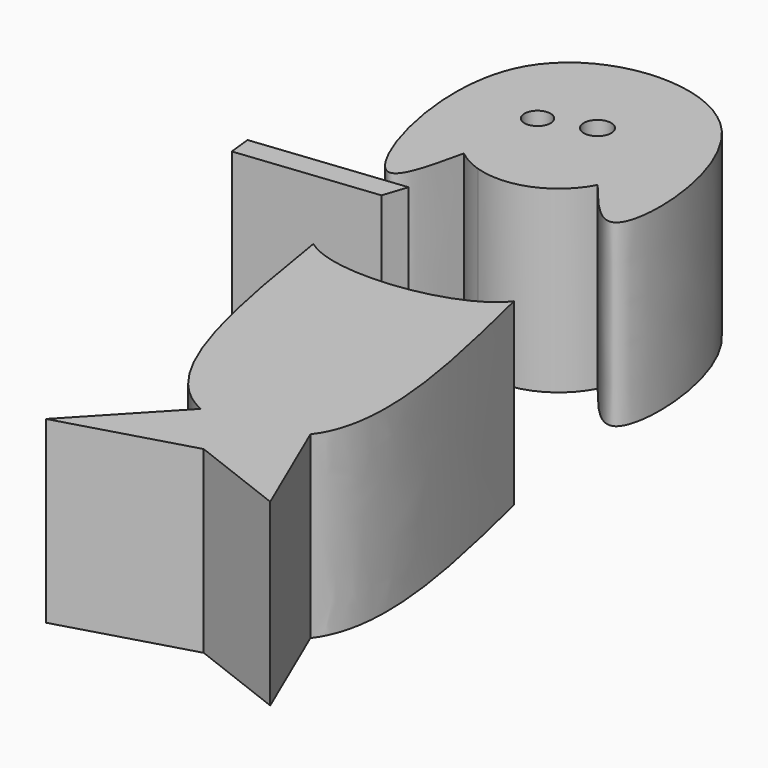
from build123d import *

# Parameters (mm, degrees)
F0_R     = 1.846820146
F0_R_2   = 1.9467160106
F1_DEPTH = 25.4
F2_DEPTH = 25.4


with BuildPart() as f1:
    # F0 (on Top) → F1 (new body)
    with BuildSketch(Plane.XY):
        with BuildLine():
            ThreePointArc((36.9435020758, 36.0929218966), (37.8600038878, 38.5097595853), (38.1715385749, 41.0756953061))
            ThreePointArc((38.1715385749, 41.0756953061), (22.845534622, 50.7602455049), (20.6779608561, 32.7608418012))
            ThreePointArc((20.6779608561, 32.7608418012), (22.3670908904, 31.6334019049), (24.2384962653, 30.8446542167))
            ThreePointArc((24.2384962653, 30.8446542167), (31.5426099993, 31.1651286693), (36.9435020758, 36.0929218966))
        make_face()
        with Locations((21.8032132834, 44.3851128221)):
            Circle(F0_R, mode=Mode.SUBTRACT)
        with Locations((28.4220445901, 46.7211678624)):
            Circle(F0_R_2, mode=Mode.SUBTRACT)
        with BuildLine():
            ThreePointArc((20.6779608561, 32.7608418012), (22.845534622, 50.7602455049), (38.1715385749, 41.0756953061))
            ThreePointArc((38.1715385749, 41.0756953061), (37.8600038878, 38.5097595853), (36.9435020758, 36.0929218966))
            add(Edge.make_bspline(
                [(36.9435020758, 36.0929218966), (39.7619230971, 32.5731202027), (47.327591355, 23.1433714802), (45.3254807892, 64.2964760594), (2.4433310892, 60.3817058524), (16.764176742, 15.2065417029), (19.6323979114, 28.0748703107), (20.6779608561, 32.7608418012)],
                knots=[0, 0, 0, 0, 0.1400069429, 0.3744184043, 0.6104598031, 0.858165432, 1, 1, 1, 1], degree=3))
        make_face()
    extrude(amount=F1_DEPTH)


with BuildPart() as f1b:
    # F0 (on Top) → F1, piece 2 (new body)
    with BuildSketch(Plane.XY):
        with BuildLine():
            add(Edge.make_bspline(
                [(21.219195798, 5.4508033209), (26.9567443659, 1.0706934922), (42.9232525251, 3.0011097838), (47.1105128527, 8.5655478761)],
                knots=[0.3278309737, 0.3278309737, 0.3278309737, 0.3278309737, 0.6588848416, 0.6588848416, 0.6588848416, 0.6588848416], degree=3))
            add(Edge.make_bspline(
                [(21.219195798, 5.4508033209), (23.7916090126, -10.6380070469), (26.5623994556, -27.9675409471), (35.5120330181, -32.8891363386), (36.173596138, -33.1789525885)],
                knots=[0, 0, 0, 0, 0.3831045517, 0.4126484908, 0.4126484908, 0.4126484908, 0.4126484908], degree=3))
            add(Edge.make_bspline(
                [(36.173596138, -33.1789525885), (40.8303052611, -35.2189544183), (46.5178888087, -34.1598140853), (49.4465716183, -30.3687602282)],
                knots=[0.4126484908, 0.4126484908, 0.4126484908, 0.4126484908, 0.6206067737, 0.6206067737, 0.6206067737, 0.6206067737], degree=3))
            add(Edge.make_bspline(
                [(49.4465716183, -30.3687602282), (54.789577939, -23.4524684897), (50.9500453958, -7.4434603068), (47.1105128527, 8.5655478761)],
                knots=[0.6206067737, 0.6206067737, 0.6206067737, 0.6206067737, 1, 1, 1, 1], degree=3))
        make_face()
        with BuildLine():
            add(Edge.make_bspline(
                [(36.173596138, -33.1789525885), (40.8303052611, -35.2189544183), (46.5178888087, -34.1598140853), (49.4465716183, -30.3687602282)],
                knots=[0.4126484908, 0.4126484908, 0.4126484908, 0.4126484908, 0.6206067737, 0.6206067737, 0.6206067737, 0.6206067737], degree=3))
            Line((36.173596138, -33.1789525885), (24.331788693, -45.7527260185))
            Line((24.331788693, -45.7527260185), (42.4383915961, -40.4916778207))
            Line((42.4383915961, -40.4916778207), (56.0653991997, -45.7527260185))
            Line((56.0653991997, -45.7527260185), (49.4465716183, -30.3687602282))
        make_face()
    extrude(amount=F1_DEPTH)


with BuildPart() as f1c:
    # F0 (on Top) → F1, piece 3 (new body)
    with BuildSketch(Plane.XY):
        with BuildLine():
            add(Edge.make_bspline(
                [(20.9707160152, 22.6021182317), (20.5532650929, 21.4470552384), (20.1705823964, 20.3134723426), (19.83768814, 19.2106311627)],
                knots=[0.0867319997, 0.0867319997, 0.0867319997, 0.0867319997, 0.1242412505, 0.1242412505, 0.1242412505, 0.1242412505], degree=3))
            Line((20.9707160152, 22.6021182317), (0, 20.3139950234))
            Line((0, 20.3139950234), (0.352362816, 17.0845795265))
            Line((0.352362816, 17.0845795265), (19.83768814, 19.2106311627))
        make_face()
    extrude(amount=F1_DEPTH)


with BuildPart() as f2:
    # F0 (on Top) → F2 (new body)
    with BuildSketch(Plane.XY):
        with BuildLine():
            ThreePointArc((36.9435020758, 36.0929218966), (37.8600038878, 38.5097595853), (38.1715385749, 41.0756953061))
            ThreePointArc((38.1715385749, 41.0756953061), (22.845534622, 50.7602455049), (20.6779608561, 32.7608418012))
            ThreePointArc((20.6779608561, 32.7608418012), (22.3670908904, 31.6334019049), (24.2384962653, 30.8446542167))
            ThreePointArc((24.2384962653, 30.8446542167), (31.5426099993, 31.1651286693), (36.9435020758, 36.0929218966))
        make_face()
        with Locations((21.8032132834, 44.3851128221)):
            Circle(F0_R, mode=Mode.SUBTRACT)
        with Locations((28.4220445901, 46.7211678624)):
            Circle(F0_R_2, mode=Mode.SUBTRACT)
        with BuildLine():
            ThreePointArc((20.6779608561, 32.7608418012), (22.845534622, 50.7602455049), (38.1715385749, 41.0756953061))
            ThreePointArc((38.1715385749, 41.0756953061), (37.8600038878, 38.5097595853), (36.9435020758, 36.0929218966))
            add(Edge.make_bspline(
                [(36.9435020758, 36.0929218966), (39.7619230971, 32.5731202027), (47.327591355, 23.1433714802), (45.3254807892, 64.2964760594), (2.4433310892, 60.3817058524), (16.764176742, 15.2065417029), (19.6323979114, 28.0748703107), (20.6779608561, 32.7608418012)],
                knots=[0, 0, 0, 0, 0.1400069429, 0.3744184043, 0.6104598031, 0.858165432, 1, 1, 1, 1], degree=3))
        make_face()
    extrude(amount=F2_DEPTH)


with BuildPart() as f2b:
    # F0 (on Top) → F2, piece 2 (new body)
    with BuildSketch(Plane.XY):
        with BuildLine():
            add(Edge.make_bspline(
                [(21.219195798, 5.4508033209), (26.9567443659, 1.0706934922), (42.9232525251, 3.0011097838), (47.1105128527, 8.5655478761)],
                knots=[0.3278309737, 0.3278309737, 0.3278309737, 0.3278309737, 0.6588848416, 0.6588848416, 0.6588848416, 0.6588848416], degree=3))
            add(Edge.make_bspline(
                [(21.219195798, 5.4508033209), (23.7916090126, -10.6380070469), (26.5623994556, -27.9675409471), (35.5120330181, -32.8891363386), (36.173596138, -33.1789525885)],
                knots=[0, 0, 0, 0, 0.3831045517, 0.4126484908, 0.4126484908, 0.4126484908, 0.4126484908], degree=3))
            add(Edge.make_bspline(
                [(36.173596138, -33.1789525885), (40.8303052611, -35.2189544183), (46.5178888087, -34.1598140853), (49.4465716183, -30.3687602282)],
                knots=[0.4126484908, 0.4126484908, 0.4126484908, 0.4126484908, 0.6206067737, 0.6206067737, 0.6206067737, 0.6206067737], degree=3))
            add(Edge.make_bspline(
                [(49.4465716183, -30.3687602282), (54.789577939, -23.4524684897), (50.9500453958, -7.4434603068), (47.1105128527, 8.5655478761)],
                knots=[0.6206067737, 0.6206067737, 0.6206067737, 0.6206067737, 1, 1, 1, 1], degree=3))
        make_face()
        with BuildLine():
            add(Edge.make_bspline(
                [(36.173596138, -33.1789525885), (40.8303052611, -35.2189544183), (46.5178888087, -34.1598140853), (49.4465716183, -30.3687602282)],
                knots=[0.4126484908, 0.4126484908, 0.4126484908, 0.4126484908, 0.6206067737, 0.6206067737, 0.6206067737, 0.6206067737], degree=3))
            Line((36.173596138, -33.1789525885), (24.331788693, -45.7527260185))
            Line((24.331788693, -45.7527260185), (42.4383915961, -40.4916778207))
            Line((42.4383915961, -40.4916778207), (56.0653991997, -45.7527260185))
            Line((56.0653991997, -45.7527260185), (49.4465716183, -30.3687602282))
        make_face()
    extrude(amount=F2_DEPTH)


with BuildPart() as f2c:
    # F0 (on Top) → F2, piece 3 (new body)
    with BuildSketch(Plane.XY):
        with BuildLine():
            add(Edge.make_bspline(
                [(20.9707160152, 22.6021182317), (20.5532650929, 21.4470552384), (20.1705823964, 20.3134723426), (19.83768814, 19.2106311627)],
                knots=[0.0867319997, 0.0867319997, 0.0867319997, 0.0867319997, 0.1242412505, 0.1242412505, 0.1242412505, 0.1242412505], degree=3))
            Line((20.9707160152, 22.6021182317), (0, 20.3139950234))
            Line((0, 20.3139950234), (0.352362816, 17.0845795265))
            Line((0.352362816, 17.0845795265), (19.83768814, 19.2106311627))
        make_face()
    extrude(amount=F2_DEPTH)


solid = Compound([f1.part, f1b.part, f1c.part, f2.part, f2b.part, f2c.part])
